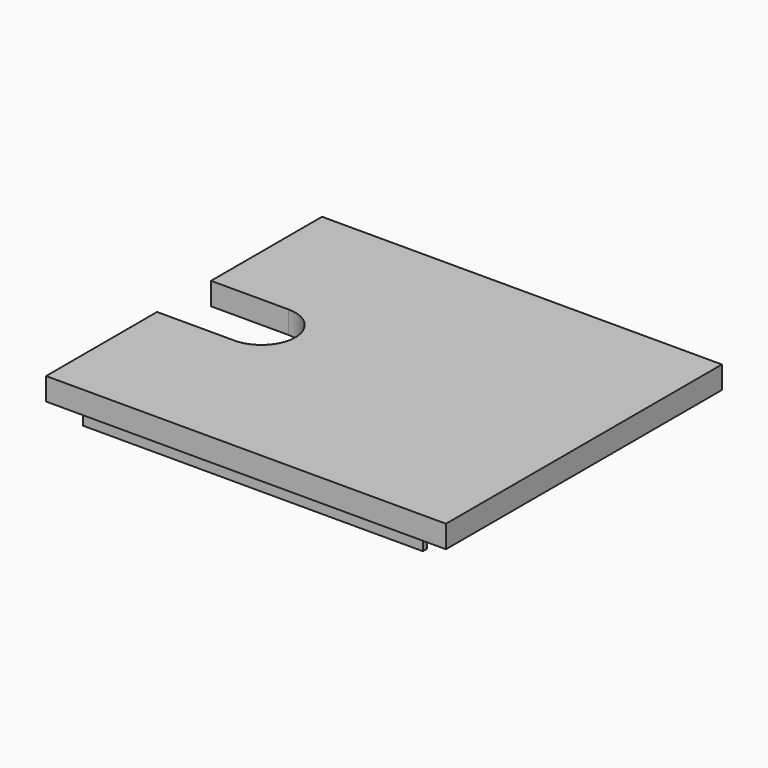
from build123d import *

# Parameters (mm, degrees)
SKETCH008_W     = 53.333333
SKETCH008_H     = 46
PAD005_DEPTH    = 3
SKETCH010_W     = 45.333333
SKETCH010_H     = 0.7
PAD006_DEPTH    = 2
POCKET005_DEPTH = 3


with BuildPart() as part:
    # Sketch008 → Pad005 (new body)
    with BuildSketch(Plane.XY.offset(15)):
        with Locations((16.333334, 0)):
            Rectangle(SKETCH008_W, SKETCH008_H)
    extrude(amount=PAD005_DEPTH)

    # Sketch010 → Pad006 (join)
    with BuildSketch(Plane(origin=(0, 0, 15), x_dir=(1, 0, 0), z_dir=(0, 0, -1))):
        with Locations((16.333334, 21.5)):
            Rectangle(SKETCH010_W, SKETCH010_H)
    pad006 = extrude(amount=PAD006_DEPTH)

    # Mirrored001: Pad006 across XZ
    add(pad006.mirror(Plane.XZ))

    # Sketch009 (on Face6 of Pad005) → Pocket005 (cut)
    with BuildSketch(Plane.XY.offset(18)):
        with BuildLine():
            ThreePointArc((0, -4.5), (4.5, 0), (0, 4.5))
            Line((0, 4.5), (-10.333333, 4.5))
            Line((-10.333333, 4.5), (-10.333333, -4.5))
            Line((-10.333333, -4.5), (0, -4.5))
        make_face()
    extrude(amount=-POCKET005_DEPTH, mode=Mode.SUBTRACT)


solid = part.part
